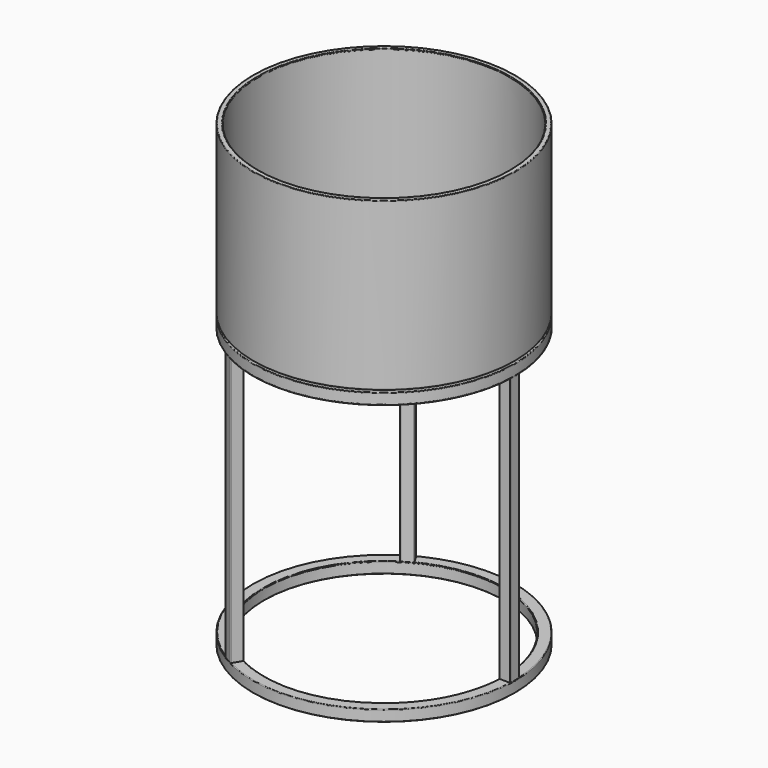
from build123d import *

# Parameters (mm, degrees)
F5_DEPTH = 438


with BuildPart() as f1:
    # F0 (on Front) → F1 (revolve)
    with BuildSketch(Plane.XZ):
        with BuildLine():
            ThreePointArc((210, 279), (209.707107, 279.707107), (209, 280))
            Line((209, 280), (203, 280))
            ThreePointArc((203, 280), (202.292893, 279.707107), (202, 279))
            Line((202, 279), (202, 23))
            ThreePointArc((202, 23), (201.12132, 20.87868), (199, 20))
            Line((199, 20), (0, 20))
            Line((0, 20), (0, 12))
            Line((0, 12), (172.321801, 12))
            ThreePointArc((172.321801, 12), (173.607376, 11.532089), (174.291416, 10.347296))
            Line((174.291416, 10.347296), (175.824508, 1.652704))
            ThreePointArc((175.824508, 1.652704), (176.508548, 0.467911), (177.794123, 0))
            Line((177.794123, 0), (186.205877, 0))
            ThreePointArc((186.205877, 0), (187.491452, 0.467911), (188.175492, 1.652704))
            Line((188.175492, 1.652704), (189.708584, 10.347296))
            ThreePointArc((189.708584, 10.347296), (190.392624, 11.532089), (191.678199, 12))
            Line((191.678199, 12), (208, 12))
            ThreePointArc((208, 12), (209.414214, 12.585786), (210, 14))
            Line((210, 14), (210, 279))
        make_face()
    revolve(axis=Axis((0, 0, 10), (0, 0, 1)))


with BuildPart() as f3:
    # F2 (on Front) → F3 (revolve)
    with BuildSketch(Plane.XZ):
        with BuildLine():
            Line((193, -9), (209, -9))
            ThreePointArc((209, -9), (209.707107, -8.707107), (210, -8))
            Line((210, -8), (210, 8))
            ThreePointArc((210, 8), (209.707107, 8.707107), (209, 9))
            Line((209, 9), (193, 9))
            ThreePointArc((193, 9), (192.292893, 8.707107), (192, 8))
            Line((192, 8), (192, -8))
            ThreePointArc((192, -8), (192.292893, -8.707107), (193, -9))
        make_face()
    revolve(axis=Axis((0, 0, 10), (0, 0, 1)))

    # F4 (on Top) → F5 (join)
    with BuildSketch(Plane.XY):
        with BuildLine():
            Line((192.80613, -9), (208.80613, -9))
            ThreePointArc((208.80613, -9), (209.513237, -8.707107), (209.80613, -8))
            Line((209.80613, -8), (209.80613, 8))
            ThreePointArc((209.80613, 8), (209.513237, 8.707107), (208.80613, 9))
            Line((208.80613, 9), (192.80613, 9))
            ThreePointArc((192.80613, 9), (192.099023, 8.707107), (191.80613, 8))
            Line((191.80613, 8), (191.80613, -8))
            ThreePointArc((191.80613, -8), (192.099023, -8.707107), (192.80613, -9))
        make_face()
        with BuildLine():
            Line((-88.608836, 171.475007), (-96.608836, 185.331413))
            ThreePointArc((-96.608836, 185.331413), (-97.216043, 185.797339), (-97.974862, 185.697439))
            Line((-97.974862, 185.697439), (-111.831268, 177.697439))
            ThreePointArc((-111.831268, 177.697439), (-112.297194, 177.090232), (-112.197294, 176.331413))
            Line((-112.197294, 176.331413), (-104.197294, 162.475007))
            ThreePointArc((-104.197294, 162.475007), (-103.590087, 162.009081), (-102.831268, 162.108981))
            Line((-102.831268, 162.108981), (-88.974862, 170.108981))
            ThreePointArc((-88.974862, 170.108981), (-88.508936, 170.716188), (-88.608836, 171.475007))
        make_face()
        with BuildLine():
            Line((-104.197294, -162.475007), (-112.197294, -176.331413))
            ThreePointArc((-112.197294, -176.331413), (-112.297194, -177.090232), (-111.831268, -177.697439))
            Line((-111.831268, -177.697439), (-97.974862, -185.697439))
            ThreePointArc((-97.974862, -185.697439), (-97.216043, -185.797339), (-96.608836, -185.331413))
            Line((-96.608836, -185.331413), (-88.608836, -171.475007))
            ThreePointArc((-88.608836, -171.475007), (-88.508936, -170.716188), (-88.974862, -170.108981))
            Line((-88.974862, -170.108981), (-102.831268, -162.108981))
            ThreePointArc((-102.831268, -162.108981), (-103.590087, -162.009081), (-104.197294, -162.475007))
        make_face()
    extrude(amount=-F5_DEPTH)

    # F6 (on Front) → F7 (revolve)
    with BuildSketch(Plane.XZ):
        with BuildLine():
            Line((193, -456), (209, -456))
            ThreePointArc((209, -456), (209.707107, -455.707107), (210, -455))
            Line((210, -455), (210, -439))
            ThreePointArc((210, -439), (209.707107, -438.292893), (209, -438))
            Line((209, -438), (193, -438))
            ThreePointArc((193, -438), (192.292893, -438.292893), (192, -439))
            Line((192, -439), (192, -455))
            ThreePointArc((192, -455), (192.292893, -455.707107), (193, -456))
        make_face()
    revolve(axis=Axis((0, 0, 10), (0, 0, 1)))


solid = Compound([f1.part, f3.part])
